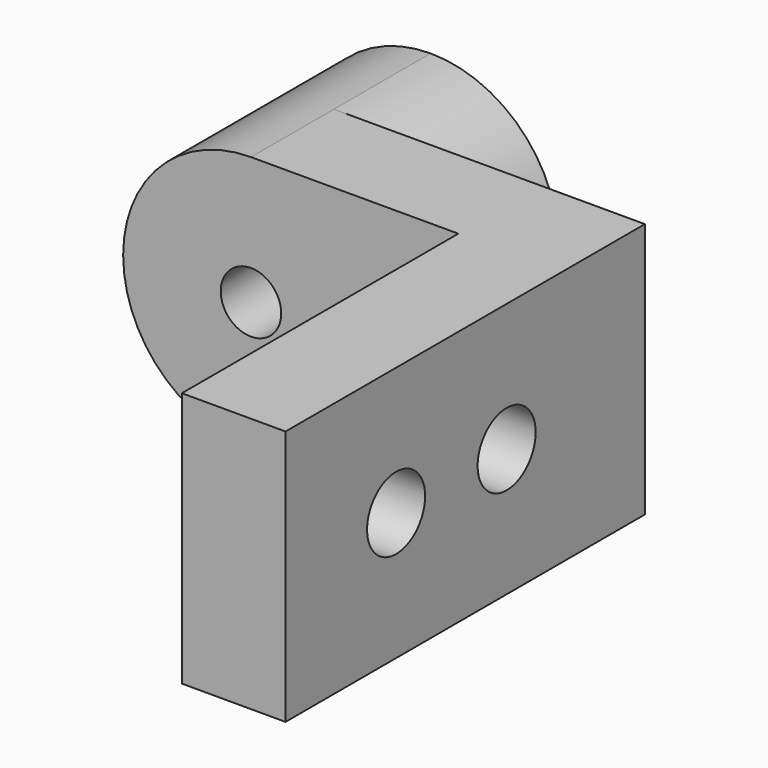
from build123d import *

# Parameters (mm, degrees)
F0_R     = 1.75
F1_DEPTH = 13
F2_DEPTH = 6
F3_DEPTH = 20
F4_R     = 2.1
F5_DEPTH = 25


with BuildPart() as f1:
    # F0 (on Front) → F1 (new body)
    with BuildSketch(Plane.XZ):
        with BuildLine():
            ThreePointArc((-12, -7.4), (-6.76741, -5.23259), (-4.6, 0))
            ThreePointArc((-4.6, 0), (-6.76741, 5.23259), (-12, 7.4))
            ThreePointArc((-12, 7.4), (-19.4, 0), (-12, -7.4))
        make_face()
        with Locations((-12, 0)):
            Circle(F0_R, mode=Mode.SUBTRACT)
    extrude(amount=-F1_DEPTH)

    # F0 (on Front) → F2 (join)
    with BuildSketch(Plane.XZ):
        with BuildLine():
            ThreePointArc((-12, 7.4), (-6.76741, 5.23259), (-4.6, 0))
            ThreePointArc((-4.6, 0), (-6.76741, -5.23259), (-12, -7.4))
            Line((-12, -7.4), (0, -7.4))
            Line((0, -7.4), (0, 0))
            Line((0, 0), (0, 7.4))
            Line((0, 7.4), (-12, 7.4))
        make_face()
        Polygon((6, 7.4), (0, 7.4), (0, 0), (0, -7.4), (6, -7.4), align=None)
    extrude(amount=-F2_DEPTH)

    # F0 (on Front) → F3 (join)
    with BuildSketch(Plane.XZ):
        Polygon((6, 7.4), (0, 7.4), (0, 0), (0, -7.4), (6, -7.4), align=None)
    extrude(amount=F3_DEPTH)

    # F4 (on Right) → F5 (cut)
    with BuildSketch(Plane.YZ):
        with Locations((-12, 0)):
            Circle(F4_R)
        with Locations((-4, 0)):
            Circle(F4_R)
    extrude(amount=F5_DEPTH, mode=Mode.SUBTRACT)


solid = f1.part
